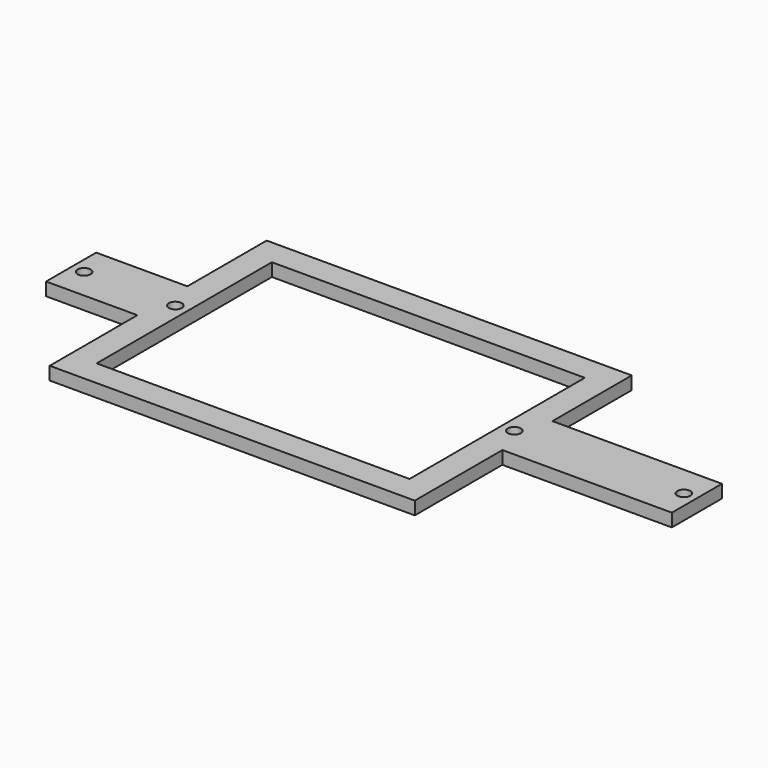
from build123d import *

# Parameters (mm, degrees)
BOX015_W               = 120
BOX015_H               = 30
BOX015_DEPTH           = 84
CYLINDER069_R          = 2.5
CYLINDER069_DEPTH      = 10
CYLINDER070_R          = 2.5
CYLINDER070_DEPTH      = 10
CYLINDER071_R          = 2.5
CYLINDER071_DEPTH      = 10
CYLINDER072_R          = 2.5
CYLINDER072_DEPTH      = 10
CYLINDER068_R          = 2.5
CYLINDER068_DEPTH      = 10
CYLINDER073_R          = 2.5
CYLINDER073_DEPTH      = 10
BOX009_W               = 240
BOX009_H               = 5
BOX009_DEPTH           = 24
BOX010_W               = 140
BOX010_H               = 5
BOX010_DEPTH           = 38
BOX011_W               = 140
BOX011_H               = 5
BOX011_DEPTH           = 42
CUT008_PLACEMENT_ANGLE = 90


with BuildPart() as gatewaycut001:
    # Box015 → Box015 (new body)
    with BuildSketch(Plane(origin=(-75, -3.2, -75), x_dir=(1, 0, 0), z_dir=(0, 0, 1))):
        with Locations((60, 15)):
            Rectangle(BOX015_W, BOX015_H)
    extrude(amount=BOX015_DEPTH)


with BuildPart() as cylinder069:
    # Cylinder069 → Cylinder069 (new body)
    with BuildSketch(Plane(origin=(115, 0, -31), x_dir=(1, 0, 0), z_dir=(0, -1, 0))):
        Circle(CYLINDER069_R)
    extrude(amount=CYLINDER069_DEPTH)


with BuildPart() as cylinder070:
    # Cylinder070 → Cylinder070 (new body)
    with BuildSketch(Plane(origin=(-80, 0, -31), x_dir=(1, 0, 0), z_dir=(0, -1, 0))):
        Circle(CYLINDER070_R)
    extrude(amount=CYLINDER070_DEPTH)


with BuildPart() as cylinder071:
    # Cylinder071 → Cylinder071 (new body)
    with BuildSketch(Plane(origin=(50, 0, -31), x_dir=(1, 0, 0), z_dir=(0, -1, 0))):
        Circle(CYLINDER071_R)
    extrude(amount=CYLINDER071_DEPTH)


with BuildPart() as cylinder072:
    # Cylinder072 → Cylinder072 (new body)
    with BuildSketch(Plane(origin=(-45.75, 0, -56.3), x_dir=(1, 0, 0), z_dir=(0, -1, 0))):
        Circle(CYLINDER072_R)
    extrude(amount=CYLINDER072_DEPTH)


with BuildPart() as cylinder068:
    # Cylinder068 → Cylinder068 (new body)
    with BuildSketch(Plane(origin=(-115, 0, -31), x_dir=(1, 0, 0), z_dir=(0, -1, 0))):
        Circle(CYLINDER068_R)
    extrude(amount=CYLINDER068_DEPTH)


with BuildPart() as m3heatsetinserts003:
    # Cylinder073 → Cylinder073 (new body)
    with BuildSketch(Plane(origin=(-45.75, 0, -1.3), x_dir=(1, 0, 0), z_dir=(0, -1, 0))):
        Circle(CYLINDER073_R)
    extrude(amount=CYLINDER073_DEPTH)

    # Fusion025: union Cylinder069, Cylinder070, Cylinder071, Cylinder072, Cylinder068
    add(cylinder069.part)
    add(cylinder070.part)
    add(cylinder071.part)
    add(cylinder072.part)
    add(cylinder068.part)


with BuildPart() as m3heatsetinserts003_1:
    # Fusion025 placement: moved
    add(m3heatsetinserts003.part.moved(Location((0, 5.1, 0))))


with BuildPart() as cube007:
    # Box009 → Box009 (new body)
    with BuildSketch(Plane(origin=(-120, 0, -43), x_dir=(1, 0, 0), z_dir=(0, 0, 1))):
        with Locations((120, 2.5)):
            Rectangle(BOX009_W, BOX009_H)
    extrude(amount=BOX009_DEPTH)


with BuildPart() as cube008:
    # Box010 → Box010 (new body)
    with BuildSketch(Plane(origin=(-85, 0, -19), x_dir=(1, 0, 0), z_dir=(0, 0, 1))):
        with Locations((70, 2.5)):
            Rectangle(BOX010_W, BOX010_H)
    extrude(amount=BOX010_DEPTH)


with BuildPart() as mainbase001:
    # Box011 → Box011 (new body)
    with BuildSketch(Plane(origin=(-85, 0, -85), x_dir=(1, 0, 0), z_dir=(0, 0, 1))):
        with Locations((70, 2.5)):
            Rectangle(BOX011_W, BOX011_H)
    extrude(amount=BOX011_DEPTH)

    # Fusion020: union Cube007, Cube008
    add(cube007.part)
    add(cube008.part)

    # Cut007: cut M3HeatSetInserts003
    add(m3heatsetinserts003_1.part, mode=Mode.SUBTRACT)

    # Cut008: cut GatewayCut001
    add(gatewaycut001.part, mode=Mode.SUBTRACT)


with BuildPart() as mainbase001_1:
    # Cut008 placement: moved
    add(mainbase001.part.rotate(Axis((0, 0, 0), (-1, 0, 0)), CUT008_PLACEMENT_ANGLE))


solid = mainbase001_1.part
